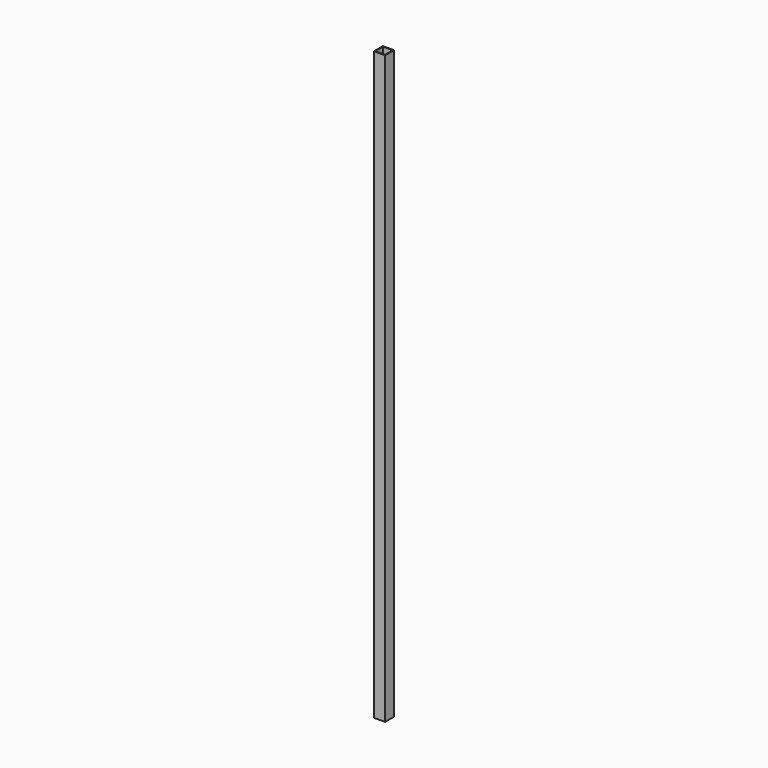
from build123d import *

# Parameters (mm, degrees)
F0_W          = 19.05
F0_H          = 19.05
F0_W_2        = 16.65
F0_H_2        = 16.65
F1_DEPTH      = 500
F1_DEPTH_BACK = 500


with BuildPart() as f1:
    # F0 (on Top) → F1 (new body, two sides)
    with BuildSketch(Plane.XY) as f1_sk:
        Rectangle(F0_W, F0_H)
        Rectangle(F0_W_2, F0_H_2, mode=Mode.SUBTRACT)
    extrude(amount=F1_DEPTH)
    extrude(f1_sk.sketch, amount=-F1_DEPTH_BACK)


solid = f1.part
